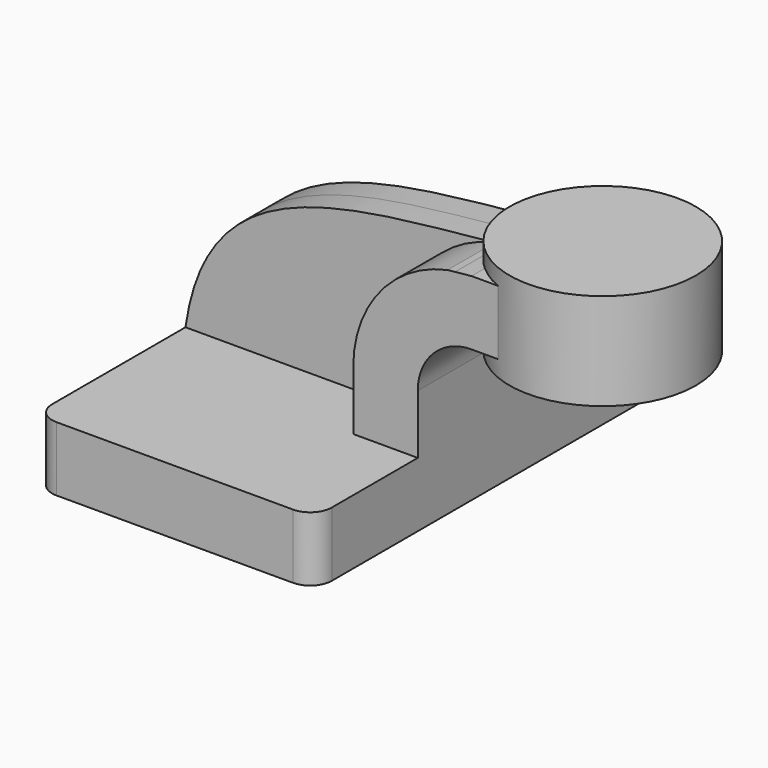
from build123d import *

# Parameters (mm, degrees)
F1_DEPTH = 63.5
F2_DEPTH = 25.4
F3_DEPTH = 7.9375
F5_R     = 6.35


with BuildPart() as f1:
    # F0 (on Front) → F1 (new body, symmetric)
    with BuildSketch(Plane.XZ):
        Polygon((22.225, 9.525), (-41.275, 9.525), (-41.275, -9.525), (41.275, -9.525), (41.275, 9.525), align=None)
    extrude(amount=F1_DEPTH, both=True)

    # F0 (on Front) → F2 (join, symmetric)
    with BuildSketch(Plane.XZ):
        with BuildLine():
            Line((22.225, 27.0002), (22.225, 9.525))
            Line((22.225, 9.525), (41.275, 9.525))
            Line((41.275, 9.525), (41.275, 27.0002))
            ThreePointArc((41.275, 27.0002), (44.310306, 36.336039), (52.255521, 42.101846))
            Line((52.255521, 42.101846), (52.255521, 61.416567))
            add(Edge.make_bspline(
                [(50.030877, 61.19192), (50.770384, 61.266108), (51.511964, 61.34093), (52.255521, 61.416567)],
                knots=[106.14327, 106.14327, 106.14327, 106.14327, 107.828168, 107.828168, 107.828168, 107.828168], degree=3))
            ThreePointArc((50.030877, 61.19192), (30.053958, 49.035629), (22.225, 27.0002))
        make_face()
        with BuildLine():
            add(Edge.make_bspline(
                [(52.255521, 61.416567), (53.877929, 61.581604), (55.509751, 61.750523), (57.15, 61.9252)],
                knots=[107.828168, 107.828168, 107.828168, 107.828168, 111.504536, 111.504536, 111.504536, 111.504536], degree=3))
            Line((52.255521, 61.416567), (52.255521, 42.101846))
            ThreePointArc((52.255521, 42.101846), (54.6724, 42.68067), (57.15, 42.8752))
            Line((57.15, 42.8752), (75.536245, 42.8752))
            Line((75.536245, 42.8752), (75.536245, 61.9252))
            Line((75.536245, 61.9252), (57.15, 61.9252))
        make_face()
    extrude(amount=F2_DEPTH, both=True)

    # F0 (on Front) → F3 (join, symmetric)
    with BuildSketch(Plane.XZ):
        with BuildLine():
            add(Edge.make_bspline(
                [(-41.275, 9.525), (-34.917098, 54.362489), (3.444235, 56.518327), (50.030877, 61.19192)],
                knots=[0, 0, 0, 0, 106.14327, 106.14327, 106.14327, 106.14327], degree=3))
            Line((-41.275, 9.525), (22.225, 9.525))
            Line((22.225, 9.525), (22.225, 27.0002))
            ThreePointArc((22.225, 27.0002), (30.053958, 49.035629), (50.030877, 61.19192))
        make_face()
    extrude(amount=F3_DEPTH, both=True)

    # F0 (on Front) → F4 (revolve)
    with BuildSketch(Plane.XZ):
        Polygon((103.055521, 66.675), (75.536245, 66.675), (75.536245, 61.9252), (75.536245, 42.8752), (75.536245, 38.1), (103.055521, 38.1), align=None)
    revolve(axis=Axis((75.536245, 0, 52.3875), (0, 0, 1)))

    # F5
    f5_edges = [f1.edges().sort_by_distance(p)[0] for p in [
        (41.275, -63.5, 0),
        (-41.275, -63.5, 0),
        (41.275, 63.5, 0),
        (-41.275, 63.5, 0),
    ]]
    fillet(f5_edges, radius=F5_R)


solid = f1.part
